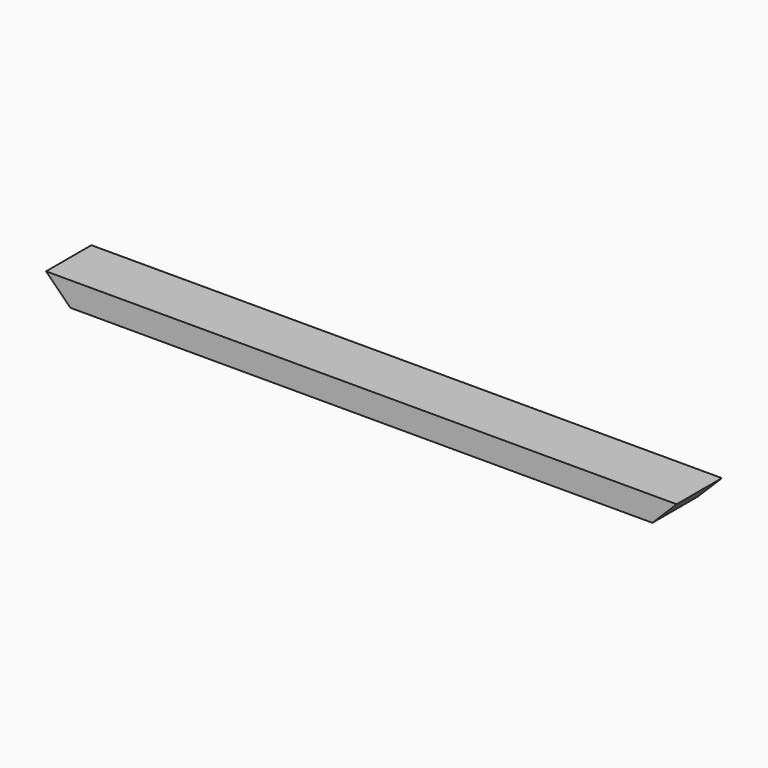
from build123d import *

# Parameters (mm, degrees)
F0_W     = 990.6
F0_H     = 38.1
F1_DEPTH = 88.9
F3_DEPTH = 88.901
F5_DEPTH = 88.901


with BuildPart() as f1:
    # F0 (on Front) → F1 (new body)
    with BuildSketch(Plane.XZ):
        Rectangle(F0_W, F0_H)
    extrude(amount=F1_DEPTH)

    # F2 (on face) → F3 (cut, through all)
    with BuildSketch(Plane.XZ.offset(88.9)):
        Polygon((-457.2, -19.05), (-495.3, 19.05), (-495.3, -19.05), align=None)
    extrude(amount=-F3_DEPTH, mode=Mode.SUBTRACT)

    # F4 (on Front) → F5 (cut, through all)
    with BuildSketch(Plane.XZ):
        Polygon((495.3, -19.05), (495.3, 19.05), (457.2, -19.05), align=None)
    extrude(amount=F5_DEPTH, mode=Mode.SUBTRACT)


solid = f1.part
